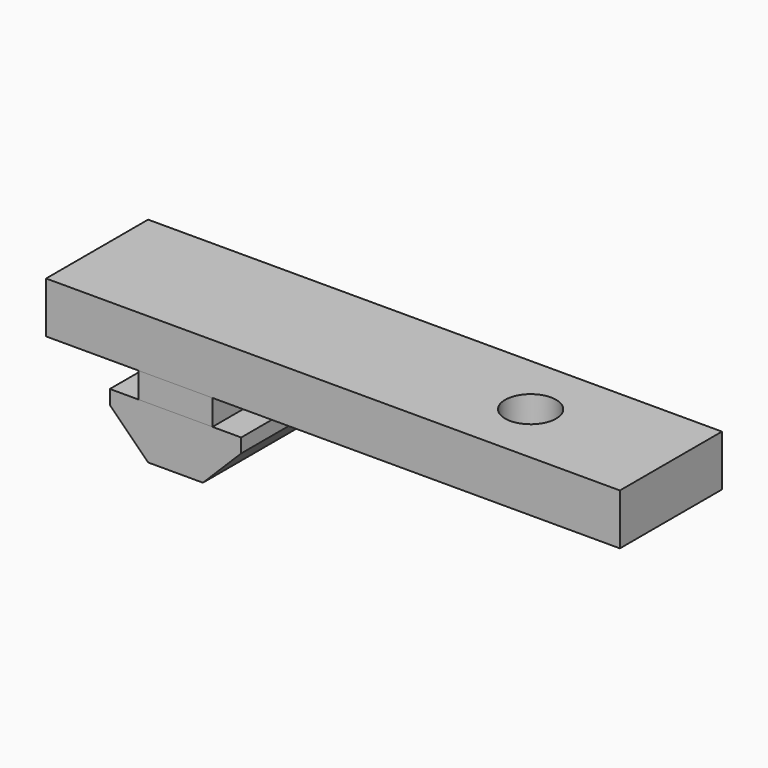
from build123d import *

# Parameters (mm, degrees)
BOX001_W        = 5.8
BOX001_H        = 10
BOX001_DEPTH    = 2
BOX_W           = 10.3
BOX_H           = 10
BOX_DEPTH       = 4.1
CHAMFER_SIZE    = 3
CHAMFER001_SIZE = 3
CYLINDER_R      = 2
CYLINDER_DEPTH  = 10
BOX002_W        = 45
BOX002_H        = 10
BOX002_DEPTH    = 4


with BuildPart() as cube001:
    # Box001 → Box001 (new body)
    with BuildSketch(Plane(origin=(2.25, 0, 4.1), x_dir=(1, 0, 0), z_dir=(0, 0, 1))):
        with Locations((2.9, 5)):
            Rectangle(BOX001_W, BOX001_H)
    extrude(amount=BOX001_DEPTH)


with BuildPart() as chamfer001:
    # Box → Box (new body)
    with BuildSketch(Plane.XY):
        with Locations((5.15, 5)):
            Rectangle(BOX_W, BOX_H)
    extrude(amount=BOX_DEPTH)

    # Chamfer
    chamfer_edges = [chamfer001.edges().sort_by_distance(p)[0] for p in [
        (0, 5, 0),
    ]]
    chamfer(chamfer_edges, length=CHAMFER_SIZE)

    # Chamfer001
    chamfer001_edges = [chamfer001.edges().sort_by_distance(p)[0] for p in [
        (10.3, 5, 0),
    ]]
    chamfer(chamfer001_edges, length=CHAMFER001_SIZE)


with BuildPart() as cylinder:
    # Cylinder → Cylinder (new body)
    with BuildSketch(Plane(origin=(29, 5, 1), x_dir=(1, 0, 0), z_dir=(0, 0, 1))):
        Circle(CYLINDER_R)
    extrude(amount=CYLINDER_DEPTH)


with BuildPart() as cut:
    # Box002 → Box002 (new body)
    with BuildSketch(Plane(origin=(-5, 0, 6.1), x_dir=(1, 0, 0), z_dir=(0, 0, 1))):
        with Locations((22.5, 5)):
            Rectangle(BOX002_W, BOX002_H)
    extrude(amount=BOX002_DEPTH)

    # Cut: cut Cylinder
    add(cylinder.part, mode=Mode.SUBTRACT)


solid = Compound([cube001.part, chamfer001.part, cut.part])
